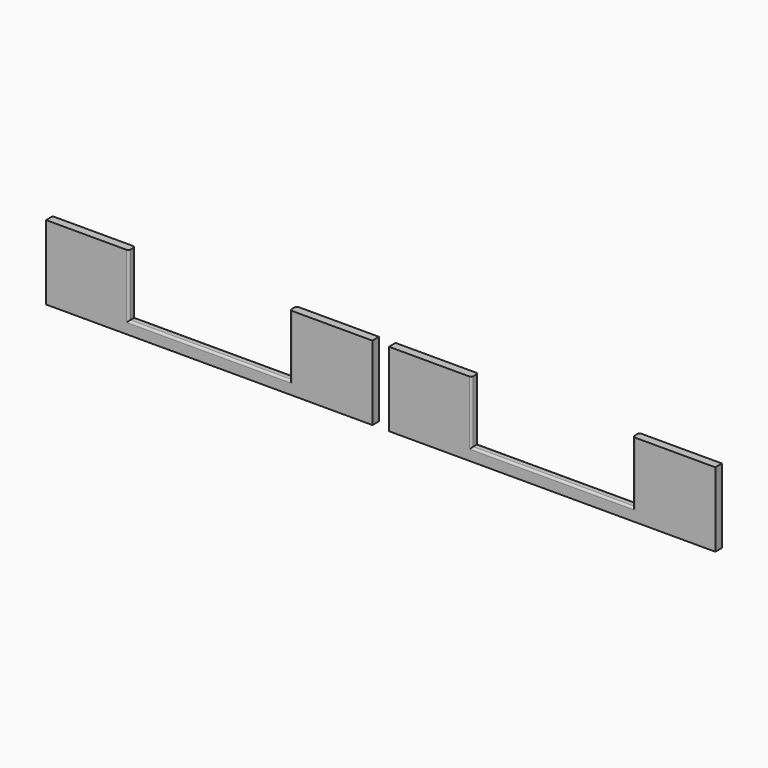
from build123d import *

# Parameters (mm, degrees)
EXTRUDE008_DEPTH = 2
FILLET004_R      = 0.5


with BuildPart() as front_side001:
    # Sketch021 → Extrude008 (new body)
    with BuildSketch(Plane.XZ):
        Polygon((0, 2), (0, 20), (20, 20), (20, 5), (59, 5), (59, 20), (79, 20), (79, 2), align=None)
        Polygon((162, 2), (162, 20), (142, 20), (142, 5), (103, 5), (103, 20), (83, 20), (83, 2), align=None)
    extrude(amount=-EXTRUDE008_DEPTH)


with BuildPart() as middle_row001:
    # Part__Mirroring003: instance of front side001
    add(front_side001.part.mirror(Plane(origin=(0, 0, 0), x_dir=(1, 0, 0), z_dir=(0, 1, 0))))


with BuildPart() as middle_row001_1:
    # Part__Mirroring003 placement: moved
    add(middle_row001.part.moved(Location((0, 23, 0))))

    # Fillet004
    fillet004_edges = [middle_row001_1.edges().sort_by_distance(p)[0] for p in [
        (142, 23, 12.5),
        (142, 21, 12.5),
        (122.5, 23, 5),
        (122.5, 21, 5),
        (103, 23, 12.5),
        (103, 21, 12.5),
        (20, 23, 12.5),
        (20, 21, 12.5),
        (39.5, 23, 5),
        (39.5, 21, 5),
        (59, 23, 12.5),
        (59, 21, 12.5),
    ]]
    fillet(fillet004_edges, radius=FILLET004_R)


solid = middle_row001_1.part
